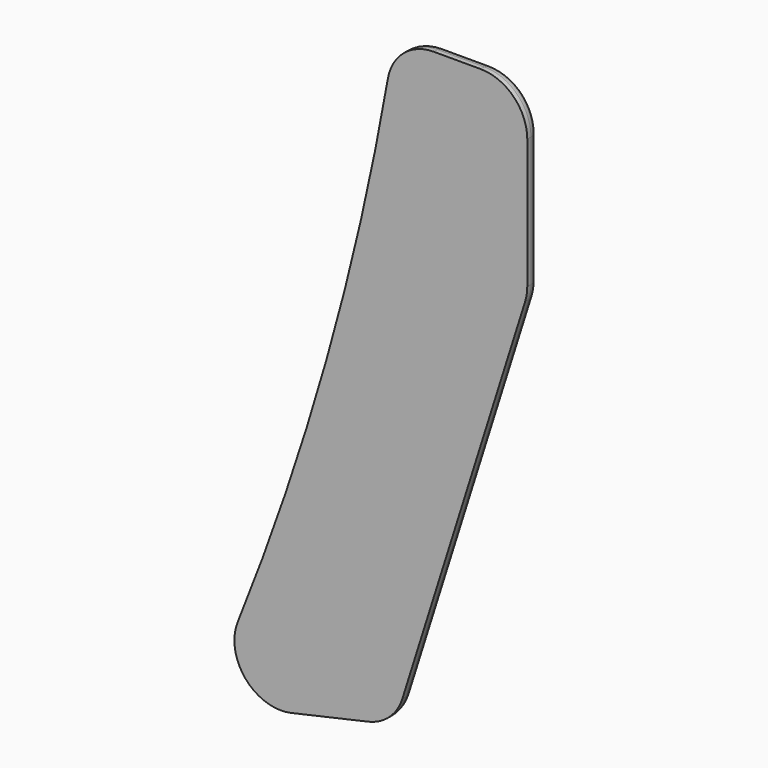
from build123d import *

# Parameters (mm, degrees)
F1_DEPTH = 1.5
F2_R     = 5
F3_R     = 1


with BuildPart() as f1:
    # F0 (on Front) → F1 (new body)
    with BuildSketch(Plane.XZ):
        with BuildLine():
            Line((14.275201, 0), (0, 0))
            ThreePointArc((0, 0), (-8.047761, -35.470172), (-20.547462, -69.626534))
            Line((-20.547462, -69.626534), (0, -65))
            Line((0, -65), (14.275201, -19.70393))
            Line((14.275201, -19.70393), (14.275201, 0))
        make_face()
    extrude(amount=F1_DEPTH)

    # F2
    f2_edges = [f1.edges().sort_by_distance(p)[0] for p in [
        (-20.547462, -0.75, -69.626534),
        (0, -0.75, -65),
        (14.275201, -0.75, -19.70393),
        (14.275201, -0.75, 0),
        (0, -0.75, 0),
    ]]
    fillet(f2_edges, radius=F2_R)

    # F3
    f3_edges = [f1.edges().sort_by_distance(p)[0] for p in [
        (-7.292111, 0, -32.863957),
    ]]
    fillet(f3_edges, radius=F3_R)


solid = f1.part
